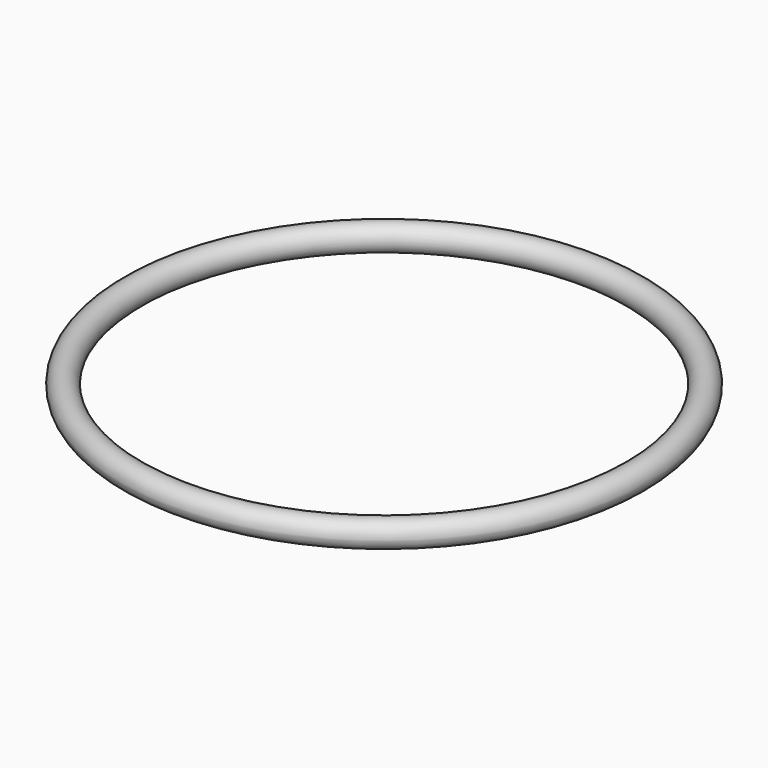
from build123d import *

# Parameters (mm, degrees)
F0_R = 1.5875


with BuildPart() as f2:
    # F2: sweep along a path in F1
    with BuildLine(Plane.XY) as f2_path:
        CenterArc((0.046345, -30.162464), 30.1625, 0, 360)
    # F0 (on Right) → F2 (sweep)
    with BuildSketch(Plane.YZ):
        Circle(F0_R)
    sweep(path=f2_path.line)


solid = f2.part
